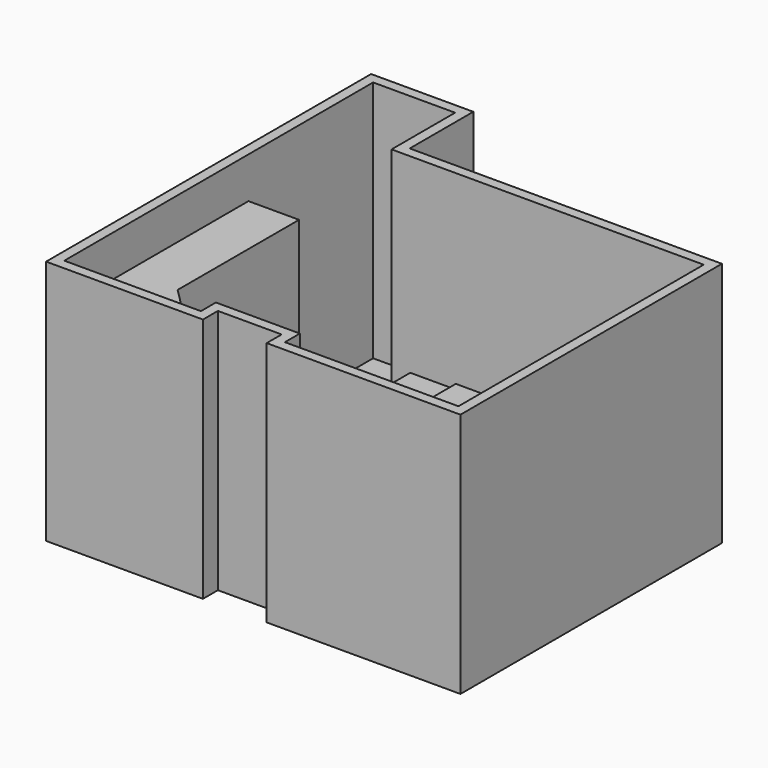
from build123d import *

# Parameters (mm, degrees)
F1_DEPTH = 240
F0_W     = 160
F0_H     = 48
F0_W_2   = 40
F0_W_3   = 152
F0_H_2   = 202
F0_W_4   = 50
F0_H_3   = 150
F0_H_4   = 50
F2_DEPTH = 3
F3_DEPTH = 201
F4_DEPTH = 55
F5_DEPTH = 60
F6_DEPTH = 78


with BuildPart() as f1:
    # F0 (on Top) → F1 (new body)
    with BuildSketch(Plane.XY):
        Polygon((145, -391.5), (145, -373), (208, -373), (208, -391.5), (399.5, -391.5), (399.5, -68.5), (91, -68.5), (91, 10), (-10, 10), (-10, -391.5), align=None)
        Polygon((0, -381.5), (0, 0), (81, 0), (81, -78.5), (389.5, -78.5), (389.5, -381.5), (218, -381.5), (218, -363), (135, -363), (135, -381.5), align=None, mode=Mode.SUBTRACT)
    extrude(amount=F1_DEPTH)

    # F0 (on Top) → F2 (join)
    with BuildSketch(Plane.XY):
        Polygon((145, -391.5), (145, -373), (208, -373), (208, -391.5), (399.5, -391.5), (399.5, -68.5), (91, -68.5), (91, 10), (-10, 10), (-10, -391.5), align=None)
        Polygon((0, -381.5), (0, 0), (81, 0), (81, -78.5), (389.5, -78.5), (389.5, -381.5), (218, -381.5), (218, -363), (135, -363), (135, -381.5), align=None, mode=Mode.SUBTRACT)
        Polygon((81, 0), (0, 0), (0, -381.5), (135, -381.5), (135, -363), (218, -363), (218, -381.5), (389.5, -381.5), (389.5, -78.5), (81, -78.5), align=None)
        Polygon((2, -306.5), (2, -156.5), (52, -156.5), (52, -306.5), (75, -329.5), (125, -329.5), (125, -379.5), (75, -379.5), (2, -379.5), align=None, mode=Mode.SUBTRACT)
        with Locations((304.5, -355.5)):
            Rectangle(F0_W, F0_H, mode=Mode.SUBTRACT)
        with Locations((123.5, -107.5)):
            Rectangle(F0_W_2, F0_H, mode=Mode.SUBTRACT)
        with Locations((224.5, -184.5)):
            Rectangle(F0_W_3, F0_H_2, mode=Mode.SUBTRACT)
        with Locations((325.5, -107.5)):
            Rectangle(F0_W_2, F0_H, mode=Mode.SUBTRACT)
        with Locations((27, -231.5)):
            Rectangle(F0_W_4, F0_H_3)
        with Locations((224.5, -184.5)):
            Rectangle(F0_W_3, F0_H_2)
        with Locations((123.5, -107.5)):
            Rectangle(F0_W_2, F0_H)
        with Locations((325.5, -107.5)):
            Rectangle(F0_W_2, F0_H)
        with Locations((304.5, -355.5)):
            Rectangle(F0_W, F0_H)
        Polygon((52, -306.5), (2, -306.5), (2, -379.5), (75, -379.5), (75, -329.5), align=None)
        with Locations((100, -354.5)):
            Rectangle(F0_W_4, F0_H_4)
    extrude(amount=-F2_DEPTH)

    # F0 (on Top) → F3 (join)
    with BuildSketch(Plane.XY):
        with Locations((27, -231.5)):
            Rectangle(F0_W_4, F0_H_3)
        Polygon((52, -306.5), (2, -306.5), (2, -379.5), (75, -379.5), (75, -329.5), align=None)
        with Locations((100, -354.5)):
            Rectangle(F0_W_4, F0_H_4)
    extrude(amount=F3_DEPTH)

    # F0 (on Top) → F4 (join)
    with BuildSketch(Plane.XY):
        with Locations((123.5, -107.5)):
            Rectangle(F0_W_2, F0_H)
        with Locations((325.5, -107.5)):
            Rectangle(F0_W_2, F0_H)
    extrude(amount=F4_DEPTH)

    # F0 (on Top) → F5 (join)
    with BuildSketch(Plane.XY):
        with Locations((224.5, -184.5)):
            Rectangle(F0_W_3, F0_H_2)
    extrude(amount=F5_DEPTH)

    # F0 (on Top) → F6 (join)
    with BuildSketch(Plane.XY):
        with Locations((304.5, -355.5)):
            Rectangle(F0_W, F0_H)
    extrude(amount=F6_DEPTH)


solid = f1.part
